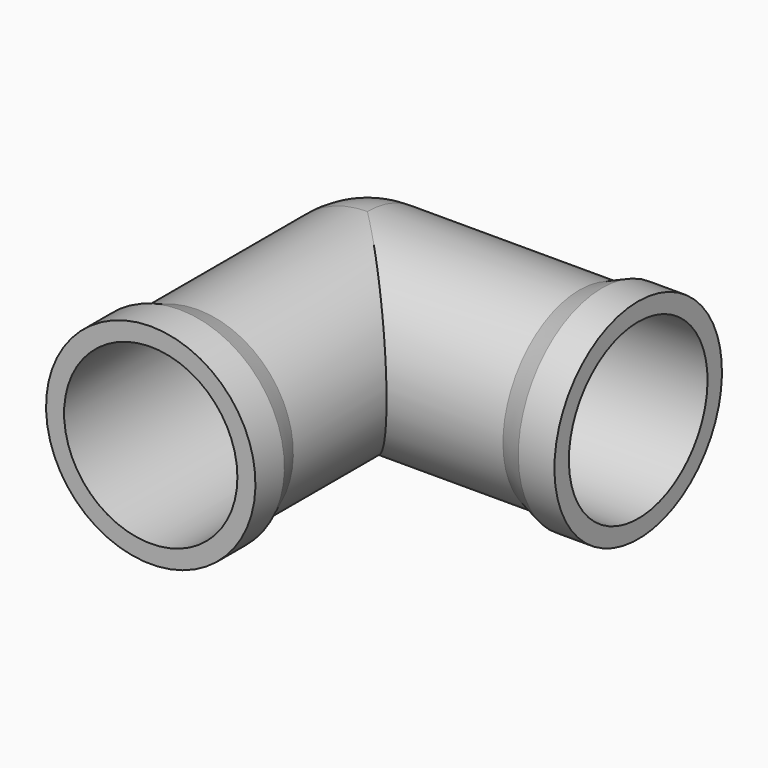
from build123d import *

# Parameters (mm, degrees)
SKETCH001_R          = 19.2
POCKET_DEPTH         = 60.001
POCKET001_DEPTH      = 23.201
POCKET001_DEPTH_BACK = -23.201
REVOLUTION001_ANGLE  = 90
SKETCH004_R          = 19.2
POCKET002_DEPTH      = 64


with BuildPart() as part:
    # Sketch → Revolution (revolve)
    with BuildSketch(Plane.XZ):
        Polygon((0, 0), (0, 21.2), (47, 21.2), (52, 23.2), (60, 23.2), (60, 0), align=None)
    revolve(axis=Axis((0, 0, 0), (1, 0, 0)))

    # Sketch001 (on Face5 of Revolution) → Pocket (cut, through all)
    with BuildSketch(Plane(origin=(60, 0, 0), x_dir=(0, 0, 1), z_dir=(1, 0, 0))):
        Circle(SKETCH001_R)
    extrude(amount=-POCKET_DEPTH, mode=Mode.SUBTRACT)

    # Sketch002 → Pocket001 (cut, two sides)
    with BuildSketch(Plane.XY) as pocket001_sk:
        Polygon((0, 0), (35.582964, -35.582964), (0, -35.582964), align=None)
    extrude(amount=-POCKET001_DEPTH, mode=Mode.SUBTRACT)
    extrude(pocket001_sk.sketch, amount=-POCKET001_DEPTH_BACK, mode=Mode.SUBTRACT)

    # Pocket001 Face1 → Revolution001 (revolve)
    with BuildSketch(Plane(origin=(0, 12.870225, 0), x_dir=(0, 1, 0), z_dir=(-1, 0, 0))):
        with BuildLine():
            Line((-12.870225, -19.2), (-12.870225, -21.2))
            ThreePointArc((-12.870225, -21.2), (8.329775, 0), (-12.870225, 21.2))
            Line((-12.870225, 21.2), (-12.870225, 19.2))
            ThreePointArc((-12.870225, 19.2), (6.329775, 0), (-12.870225, -19.2))
        make_face()
    revolve(axis=Axis((0, 0, 0), (0, 0, 1)), revolution_arc=REVOLUTION001_ANGLE)

    # Sketch003 → Revolution002 (revolve)
    with BuildSketch(Plane(origin=(0, 0, 0), x_dir=(0, -1, 0), z_dir=(-1, 0, 0))):
        Polygon((0, 0), (0, 21.2), (47, 21.2), (52, 23.2), (60, 23.2), (60, 0), align=None)
    revolve(axis=Axis((0, 0, 0), (0, -1, 0)))

    # Sketch004 (on Face9 of Revolution002) → Pocket002 (cut)
    with BuildSketch(Plane.XZ.offset(60)):
        Circle(SKETCH004_R)
    extrude(amount=-POCKET002_DEPTH, mode=Mode.SUBTRACT)


solid = part.part
